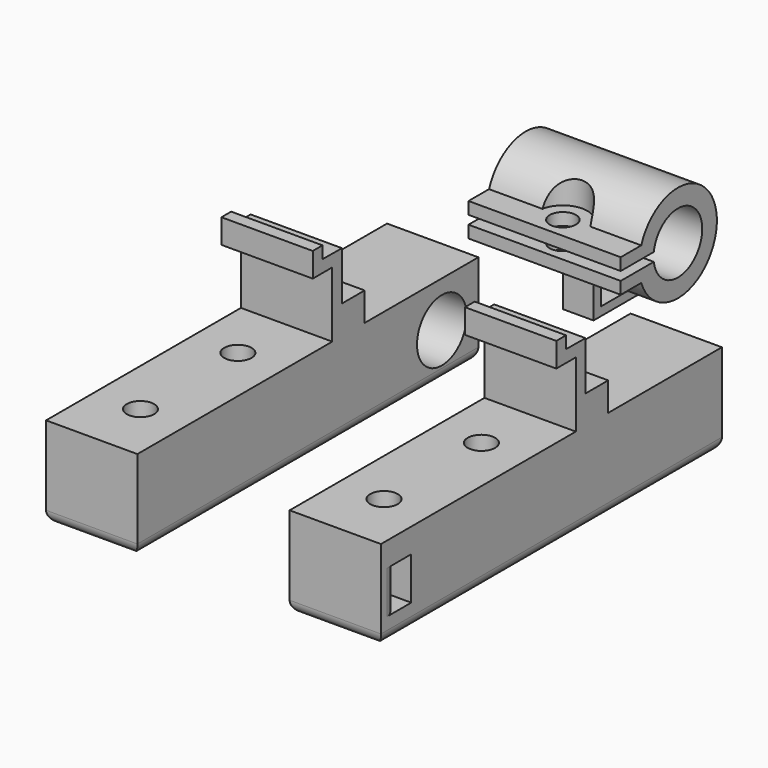
from build123d import *

# Parameters (mm, degrees)
F2_DEPTH  = 7.5
F3_R      = 5.1
F4_DEPTH  = 10
F7_W      = 3
F7_H      = 7
F8_DEPTH  = 15
F9_R      = 2
F9_2_R    = 2
F10_R     = 2.25
F11_DEPTH = 15
F12_R     = 2.25
F13_DEPTH = 15
F14_R     = 4
F14_R_2   = 2.25
F15_DEPTH = 10
F16_R     = 4
F16_R_2   = 2.25
F17_DEPTH = 10
F19_DEPTH = 25
F20_R     = 2.15
F21_DEPTH = 12.5
F22_R     = 4
F23_DEPTH = 25
F24_R     = 4
F25_DEPTH = 25
F27_W     = 7
F27_H     = 3
F28_DEPTH = 2.5


with BuildPart() as f2:
    # F1 (on Right) → F2 (new body, symmetric)
    with BuildSketch(Plane.YZ):
        Polygon((13.4876342118, 10.7337733775), (13.4876342118, 0), (-26.5123657882, 0), (-26.5123657882, -15), (18.4876342118, -15), (43.4876342118, -15), (43.4876342118, 0), (20.1378133701, 0), (20.1378133701, 4.7), (15.4876342118, 4.7), (15.4876342118, 12.7), (11.4876342118, 12.7337733775), (11.4876342118, 14.7337733775), (9.4876342118, 14.7337733775), (9.4876342118, 10.7337733775), align=None)
        Polygon((13.4876342118, 10.7337733775), (13.4876342118, 0), (-26.5123657882, 0), (-26.5123657882, -15), (18.4876342118, -15), (43.4876342118, -15), (43.4876342118, 0), (20.1378133701, 0), (20.1378133701, 4.7), (15.4876342118, 4.7), (15.4876342118, 12.7), (11.4876342118, 12.7337733775), (11.4876342118, 14.7337733775), (9.4876342118, 14.7337733775), (9.4876342118, 10.7337733775), align=None)
    extrude(amount=F2_DEPTH, both=True)

    # F3 (on face) → F4 (cut)
    with BuildSketch(Plane.YZ.offset(7.5)):
        with Locations((35.9876342118, -7.5)):
            Circle(F3_R)
    extrude(amount=-F4_DEPTH, mode=Mode.SUBTRACT)


with BuildPart() as f6_1:
    # F6: instance of F2
    add(f2.part.mirror(Plane.YZ.offset(20)))

    # F7 (on face) → F8 (cut, through all)
    with BuildSketch(Plane.YZ.offset(47.5)):
        with Locations((-21.7961885631, -7.5)):
            Rectangle(F7_W, F7_H)
    extrude(amount=-F8_DEPTH, mode=Mode.SUBTRACT)

    # F9
    f9_edges = [f6_1.edges().sort_by_distance(p)[0] for p in [
        (47.5, -23.296189, -7.5),
        (32.5, -23.296189, -7.5),
        (32.5, 8.487634, -15),
        (47.5, 8.487634, -15),
        (40, -26.512366, -15),
        (40, 43.487634, -15),
    ]]
    fillet(f9_edges, radius=F9_R)

    # F12 (on face) → F13 (cut, through all)
    with BuildSketch(Plane.XY):
        with Locations((40, 3.4876342118)):
            Circle(F12_R)
        with Locations((40, -16.5123657882)):
            Circle(F12_R)
    extrude(amount=-F13_DEPTH, mode=Mode.SUBTRACT)

    # F14 (on face) → F15 (cut)
    with BuildSketch(Plane(origin=(0, 0, -15), x_dir=(1, 0, 0), z_dir=(0, 0, -1))):
        with Locations((40, -3.4876342116)):
            Circle(F14_R)
        with Locations((40, -3.4876342118)):
            Circle(F14_R_2, mode=Mode.SUBTRACT)
        with Locations((40, 16.5123657884)):
            Circle(F14_R)
        with Locations((40, 16.5123657882)):
            Circle(F14_R_2, mode=Mode.SUBTRACT)
    extrude(amount=-F15_DEPTH, mode=Mode.SUBTRACT)


with BuildPart() as f2_1:
    add(f2.part)

    # F9#2
    f9_2_edges = [f2_1.edges().sort_by_distance(p)[0] for p in [
        (-7.5, 8.487634, -15),
        (7.5, 8.487634, -15),
        (0, -26.512366, -15),
        (0, 43.487634, -15),
    ]]
    fillet(f9_2_edges, radius=F9_2_R)

    # F10 (on face) → F11 (cut, through all)
    with BuildSketch(Plane.XY):
        with Locations((0, 3.4876342118)):
            Circle(F10_R)
        with Locations((0, -16.5123657882)):
            Circle(F10_R)
    extrude(amount=-F11_DEPTH, mode=Mode.SUBTRACT)

    # F16 (on face) → F17 (cut)
    with BuildSketch(Plane(origin=(0, 0, -15), x_dir=(1, 0, 0), z_dir=(0, 0, -1))):
        with Locations((0, -3.4876342116)):
            Circle(F16_R)
        with Locations((0, -3.4876342118)):
            Circle(F16_R_2, mode=Mode.SUBTRACT)
        with Locations((0, 16.5123657884)):
            Circle(F16_R)
        with Locations((0, 16.5123657882)):
            Circle(F16_R_2, mode=Mode.SUBTRACT)
    extrude(amount=-F17_DEPTH, mode=Mode.SUBTRACT)


with BuildPart() as f19:
    # F18 (on Right) → F19 (new body)
    with BuildSketch(Plane.YZ):
        with BuildLine():
            ThreePointArc((57.6251018052, 0.7129804788), (67.5740066171, 0), (57.6251018052, -0.7129804788))
            Line((57.6251018052, -0.7129804788), (54.6058412801, -0.7129804788))
            Line((54.6058412801, -0.7129804788), (50.8355336492, -0.7129804788))
            Line((50.8355336492, -0.7129804788), (50.8355336492, -2.7129804788))
            Line((50.8355336492, -2.7129804788), (55.0480690063, -2.7129804788))
            ThreePointArc((55.0480690063, -2.7129804788), (70.5740066171, 0), (55.0480690063, 2.7129804788))
            Line((55.0480690063, 2.7129804788), (50.8355336492, 2.7129804788))
            Line((50.8355336492, 2.7129804788), (50.8355336492, 0.7129804788))
            Line((50.8355336492, 0.7129804788), (54.6058412801, 0.7129804788))
            Line((54.6058412801, 0.7129804788), (57.6251018052, 0.7129804788))
        make_face()
    extrude(amount=F19_DEPTH)

    # F20 (on Top) → F21 (cut, symmetric)
    with BuildSketch(Plane.XY):
        with Locations((12.7094546333, 54.3205924332)):
            Circle(F20_R)
    extrude(amount=F21_DEPTH, both=True, mode=Mode.SUBTRACT)

    # F22 (on face) → F23 (cut)
    with BuildSketch(Plane(origin=(0, 0, -2.7129804788), x_dir=(1, 0, 0), z_dir=(0, 0, -1))):
        with Locations((12.7094546333, -54.3205924332)):
            Circle(F22_R)
    extrude(amount=F23_DEPTH, mode=Mode.SUBTRACT)

    # F24 (on face) → F25 (cut)
    with BuildSketch(Plane.XY.offset(2.7129804788)):
        with Locations((12.7094546333, 54.3205924332)):
            Circle(F24_R)
    extrude(amount=F25_DEPTH, mode=Mode.SUBTRACT)

    # F27 (on offset) → F28 (join, symmetric)
    with BuildSketch(Plane.YZ.offset(12.5)):
        Polygon((62.7566805045, -6.3022147063), (57.7566809952, -6.2999995425), (57.7539344066, -12.4995148507), (67.7594266024, -12.4995148507), (67.7566800138, -6.2999995425), align=None)
        with Locations((62.7512938596, -9.5898995645)):
            Rectangle(F27_W, F27_H, mode=Mode.SUBTRACT)
    extrude(amount=F28_DEPTH, both=True)


solid = Compound([f6_1.part, f2_1.part, f19.part])
